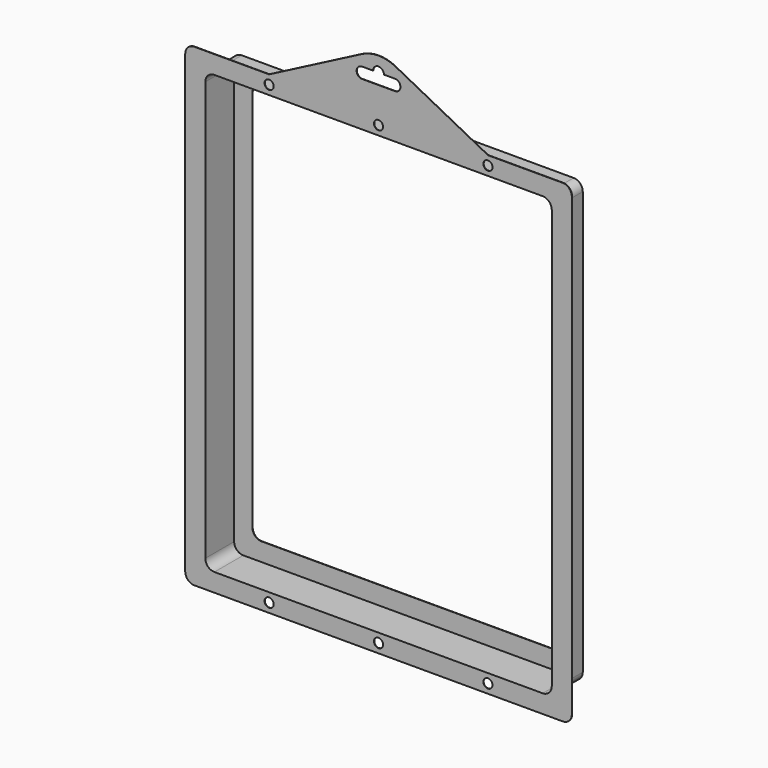
from build123d import *

# Parameters (mm, degrees)
F1_DEPTH = 25.4
F2_DEPTH = 0.254
F3_R     = 3.175
F4_DEPTH = 0.254


with BuildPart() as f1:
    # F0 (on Front) → F1 (new body)
    with BuildSketch(Plane.XZ):
        with BuildLine():
            Line((-115.57, -153.67), (115.57, -153.67))
            ThreePointArc((115.57, -153.67), (120.060128, -151.810128), (121.92, -147.32))
            Line((121.92, -147.32), (121.92, 147.32))
            ThreePointArc((121.92, 147.32), (120.060128, 151.810128), (115.57, 153.67))
            Line((115.57, 153.67), (-115.57, 153.67))
            ThreePointArc((-115.57, 153.67), (-120.060128, 151.810128), (-121.92, 147.32))
            Line((-121.92, 147.32), (-121.92, -147.32))
            ThreePointArc((-121.92, -147.32), (-120.060128, -151.810128), (-115.57, -153.67))
        make_face()
        with BuildLine():
            ThreePointArc((120.65, -146.05), (118.790128, -150.540128), (114.3, -152.4))
            Line((114.3, -152.4), (-114.3, -152.4))
            ThreePointArc((-114.3, -152.4), (-118.790128, -150.540128), (-120.65, -146.05))
            Line((-120.65, -146.05), (-120.65, 146.05))
            ThreePointArc((-120.65, 146.05), (-118.790128, 150.540128), (-114.3, 152.4))
            Line((-114.3, 152.4), (114.3, 152.4))
            ThreePointArc((114.3, 152.4), (118.790128, 150.540128), (120.65, 146.05))
            Line((120.65, 146.05), (120.65, -146.05))
        make_face(mode=Mode.SUBTRACT)
    extrude(amount=F1_DEPTH)

    # F0 (on Front) → F2 (join)
    with BuildSketch(Plane.XZ):
        with BuildLine():
            Line((-114.3, -152.4), (114.3, -152.4))
            ThreePointArc((114.3, -152.4), (118.790128, -150.540128), (120.65, -146.05))
            Line((120.65, -146.05), (120.65, 146.05))
            ThreePointArc((120.65, 146.05), (118.790128, 150.540128), (114.3, 152.4))
            Line((114.3, 152.4), (-114.3, 152.4))
            ThreePointArc((-114.3, 152.4), (-118.790128, 150.540128), (-120.65, 146.05))
            Line((-120.65, 146.05), (-120.65, -146.05))
            ThreePointArc((-120.65, -146.05), (-118.790128, -150.540128), (-114.3, -152.4))
        make_face()
        with BuildLine():
            ThreePointArc((107.95, -133.35), (106.090128, -137.840128), (101.6, -139.7))
            Line((101.6, -139.7), (-101.6, -139.7))
            ThreePointArc((-101.6, -139.7), (-106.090128, -137.840128), (-107.95, -133.35))
            Line((-107.95, -133.35), (-107.95, 133.35))
            ThreePointArc((-107.95, 133.35), (-106.090128, 137.840128), (-101.6, 139.7))
            Line((-101.6, 139.7), (101.6, 139.7))
            ThreePointArc((101.6, 139.7), (106.090128, 137.840128), (107.95, 133.35))
            Line((107.95, 133.35), (107.95, -133.35))
        make_face(mode=Mode.SUBTRACT)
    extrude(amount=F2_DEPTH)

    # F3 (on face) → F4 (join)
    with BuildSketch(Plane.XZ.offset(25.4)):
        with BuildLine():
            Line((-121.92, 147.32), (-121.92, -147.32))
            ThreePointArc((-121.92, -147.32), (-120.060128, -151.810128), (-115.57, -153.67))
            Line((-115.57, -153.67), (115.57, -153.67))
            ThreePointArc((115.57, -153.67), (120.060128, -151.810128), (121.92, -147.32))
            Line((121.92, -147.32), (121.92, 147.32))
            ThreePointArc((121.92, 147.32), (120.060128, 151.810128), (115.57, 153.67))
            Line((115.57, 153.67), (-115.57, 153.67))
            ThreePointArc((-115.57, 153.67), (-120.060128, 151.810128), (-121.92, 147.32))
        make_face()
        with BuildLine():
            Line((120.65, 146.05), (120.65, -146.05))
            ThreePointArc((120.65, -146.05), (118.790128, -150.540128), (114.3, -152.4))
            Line((114.3, -152.4), (-114.3, -152.4))
            ThreePointArc((-114.3, -152.4), (-118.790128, -150.540128), (-120.65, -146.05))
            Line((-120.65, -146.05), (-120.65, 146.05))
            ThreePointArc((-120.65, 146.05), (-118.790128, 150.540128), (-114.3, 152.4))
            Line((-114.3, 152.4), (114.3, 152.4))
            ThreePointArc((114.3, 152.4), (118.790128, 150.540128), (120.65, 146.05))
        make_face(mode=Mode.SUBTRACT)
        with BuildLine():
            Line((-128.27, -165.1), (128.27, -165.1))
            ThreePointArc((128.27, -165.1), (132.760128, -163.240128), (134.62, -158.75))
            Line((134.62, -158.75), (134.62, 158.75))
            ThreePointArc((134.62, 158.75), (132.760128, 163.240128), (128.27, 165.1))
            Line((128.27, 165.1), (76.2, 165.1))
            Line((76.2, 165.1), (11.687881, 198.535574))
            ThreePointArc((11.687881, 198.535574), (0, 201.384445), (-11.687881, 198.535574))
            Line((-11.687881, 198.535574), (-76.2, 165.1))
            Line((-76.2, 165.1), (-128.27, 165.1))
            ThreePointArc((-128.27, 165.1), (-132.760128, 163.240128), (-134.62, 158.75))
            Line((-134.62, 158.75), (-134.62, -158.75))
            ThreePointArc((-134.62, -158.75), (-132.760128, -163.240128), (-128.27, -165.1))
        make_face()
        with Locations((-76.2, -158.75)):
            Circle(F3_R, mode=Mode.SUBTRACT)
        with Locations((0, -158.75)):
            Circle(F3_R, mode=Mode.SUBTRACT)
        with Locations((76.2, -158.75)):
            Circle(F3_R, mode=Mode.SUBTRACT)
        with BuildLine():
            ThreePointArc((-115.57, -153.67), (-120.060128, -151.810128), (-121.92, -147.32))
            Line((-121.92, -147.32), (-121.92, 147.32))
            ThreePointArc((-121.92, 147.32), (-120.060128, 151.810128), (-115.57, 153.67))
            Line((-115.57, 153.67), (115.57, 153.67))
            ThreePointArc((115.57, 153.67), (120.060128, 151.810128), (121.92, 147.32))
            Line((121.92, 147.32), (121.92, -147.32))
            ThreePointArc((121.92, -147.32), (120.060128, -151.810128), (115.57, -153.67))
            Line((115.57, -153.67), (-115.57, -153.67))
        make_face(mode=Mode.SUBTRACT)
        with Locations((-76.2, 158.75)):
            Circle(F3_R, mode=Mode.SUBTRACT)
        with Locations((0, 158.75)):
            Circle(F3_R, mode=Mode.SUBTRACT)
        with BuildLine():
            ThreePointArc((-3.81, 190.947112), (0, 194.757112), (3.81, 190.947112))
            Line((3.81, 190.947112), (11.45294, 190.947112))
            ThreePointArc((11.45294, 190.947112), (14.147017, 189.831189), (15.26294, 187.137112))
            ThreePointArc((15.26294, 187.137112), (14.147017, 184.443035), (11.45294, 183.327112))
            Line((11.45294, 183.327112), (-11.45294, 183.327112))
            ThreePointArc((-11.45294, 183.327112), (-15.26294, 187.137112), (-11.45294, 190.947112))
            Line((-11.45294, 190.947112), (-3.81, 190.947112))
        make_face(mode=Mode.SUBTRACT)
        with Locations((76.2, 158.75)):
            Circle(F3_R, mode=Mode.SUBTRACT)
    extrude(amount=-F4_DEPTH)


solid = f1.part
